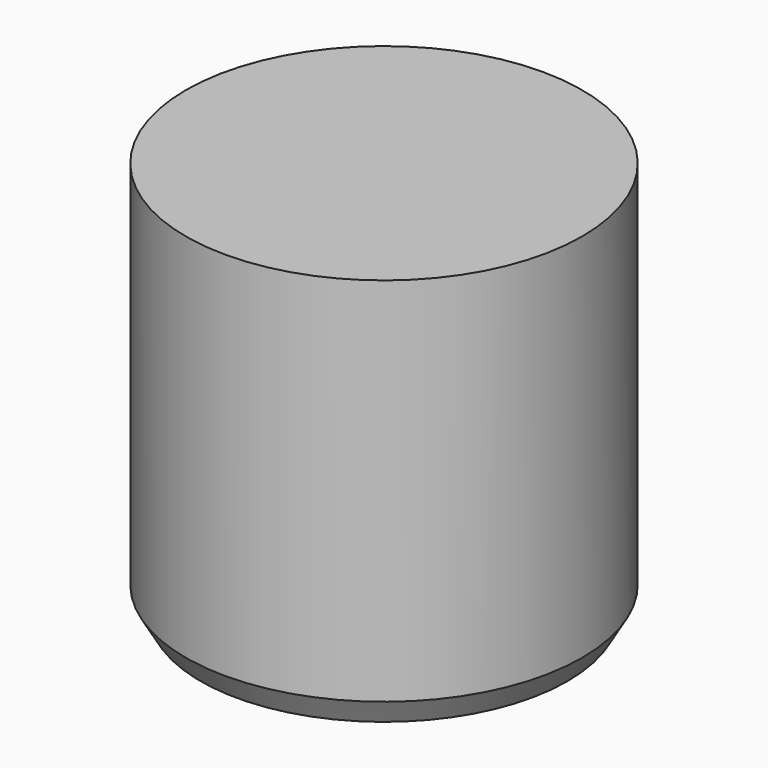
from build123d import *

# Parameters (mm, degrees)
F0_R     = 37.5
F1_DEPTH = 75
F2_SIZE2 = 2.771281
F2_SIZE  = 4.8


with BuildPart() as f1:
    # F0 (on Top) → F1 (new body)
    with BuildSketch(Plane.XY):
        Circle(F0_R)
    extrude(amount=F1_DEPTH)

    # F2
    f2_edges = [f1.edges().sort_by_distance(p)[0] for p in [
        (-37.5, 0, 0),
    ]]
    chamfer(f2_edges, length=F2_SIZE, length2=F2_SIZE2)


solid = f1.part
